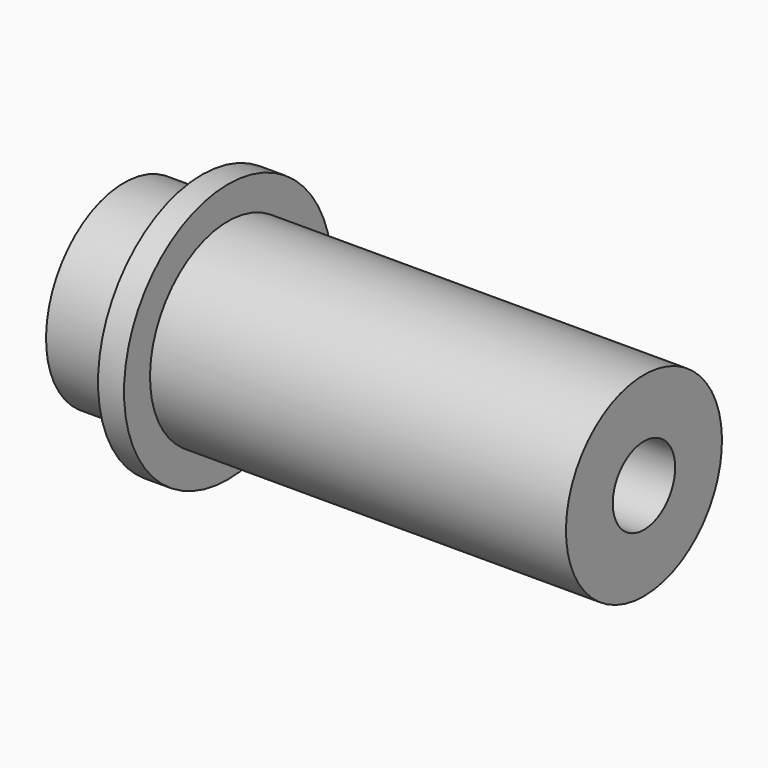
from build123d import *

# Parameters (mm, degrees)
F2_R     = 3
F3_DEPTH = 15


with BuildPart() as f1:
    # F0 (on Front) → F1 (revolve)
    with BuildSketch(Plane.XZ):
        Polygon((40, 0), (0, 0), (0, -7.5), (6, -7.5), (6, -10), (8, -10), (8, -7.5), (40, -7.5), align=None)
    revolve(axis=Axis((20, 0, 0), (1, 0, 0)))

    # F2 (on face) → F3 (cut)
    with BuildSketch(Plane.YZ.offset(40)):
        Circle(F2_R)
    extrude(amount=-F3_DEPTH, mode=Mode.SUBTRACT)


solid = f1.part
